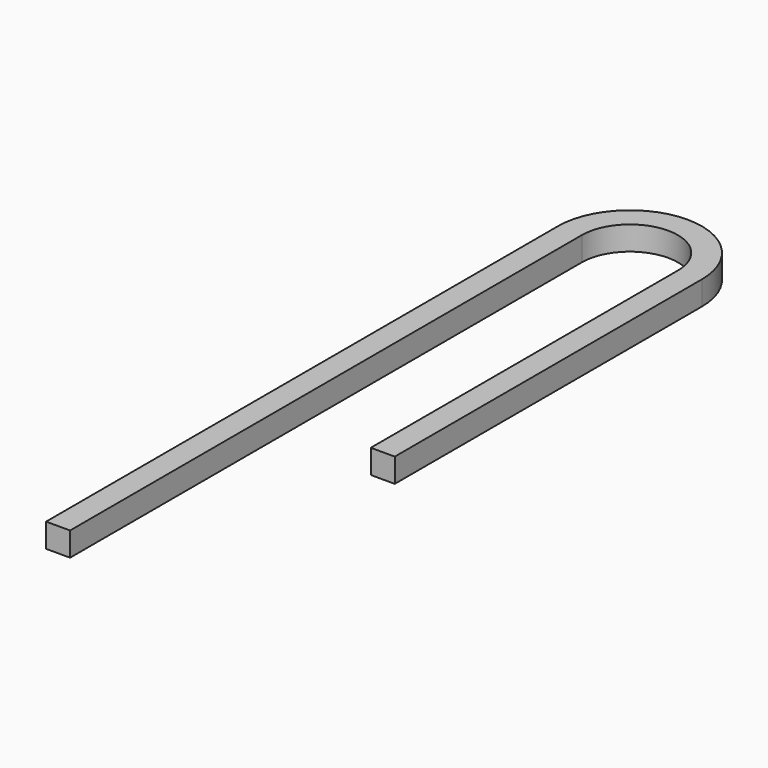
from build123d import *


with BuildPart() as f3:
    # F3: sweep along a path in F0
    with BuildLine(Plane.XY) as f3_path:
        Line((-23.8125, -254), (-23.8125, 0))
        ThreePointArc((-23.8125, 0), (0, 23.8125), (23.8125, 0))
        Line((23.8125, 0), (23.8125, -152.4))
    # F2 (on offset) → F3 (sweep)
    with BuildSketch(Plane.XZ.offset(254)):
        Polygon((-19.05, 4.7625), (-28.575, 4.7625), (-28.575, -4.7625), (-19.05, -4.7625), (-19.05, 0), align=None)
    sweep(path=f3_path.line)


solid = f3.part
